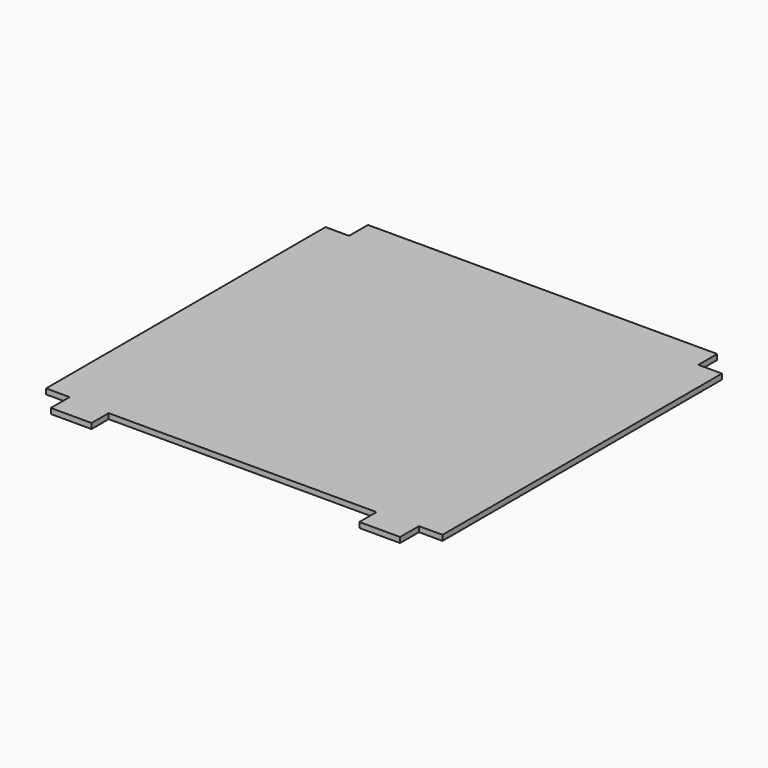
from build123d import *

# Parameters (mm, degrees)
F1_DEPTH = 5


with BuildPart() as f1:
    # F0 (on Top) → F1 (new body)
    with BuildSketch(Plane.XY):
        Polygon((163, 185), (-163, 185), (-163, 163), (-185, 163), (-185, -163), (-163, -163), (-163, -185), (-125, -185), (-125, -165), (125, -165), (125, -185), (163, -185), (163, -163), (185, -163), (185, 163), (163, 163), align=None)
    extrude(amount=F1_DEPTH)


solid = f1.part
